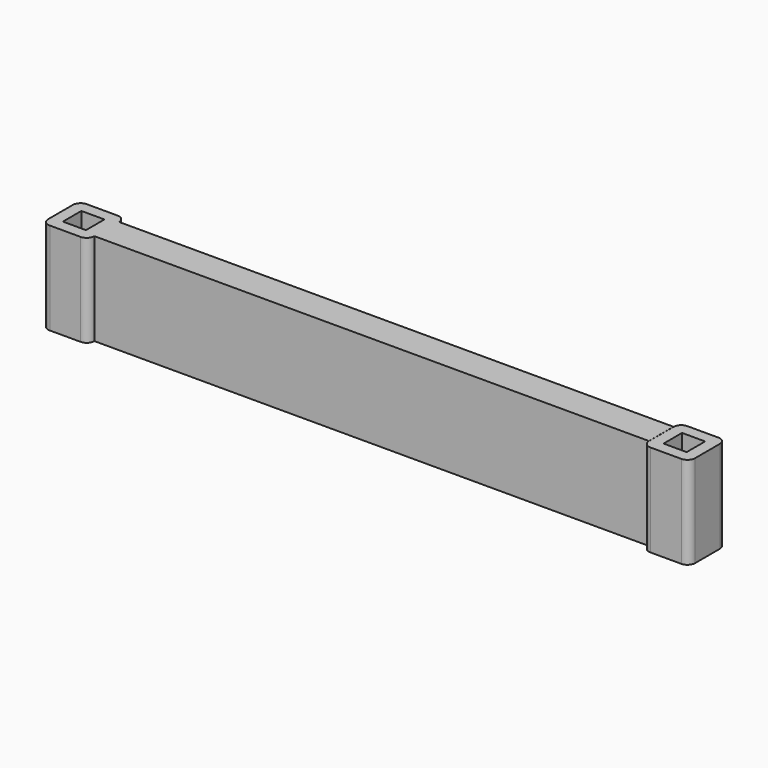
from build123d import *

# Parameters (mm, degrees)
F0_W     = 3
F0_H     = 3
F0_W_2   = 72
F0_H_2   = 4
F1_DEPTH = 12


with BuildPart() as f1:
    # F0 (on Top) → F1 (new body)
    with BuildSketch(Plane.XY):
        with BuildLine():
            Line((2, 3), (-2, 3))
            ThreePointArc((-2, 3), (-2.707107, 2.707107), (-3, 2))
            Line((-3, 2), (-3, -2))
            ThreePointArc((-3, -2), (-2.707107, -2.707107), (-2, -3))
            Line((-2, -3), (2, -3))
            ThreePointArc((2, -3), (2.707107, -2.707107), (3, -2))
            Line((3, -2), (3, 2))
            ThreePointArc((3, 2), (2.707107, 2.707107), (2, 3))
        make_face()
        Rectangle(F0_W, F0_H, mode=Mode.SUBTRACT)
        with Locations((39, 0)):
            Rectangle(F0_W_2, F0_H_2)
        with BuildLine():
            Line((80.013346, 2.987126), (76.013346, 2.987126))
            ThreePointArc((76.013346, 2.987126), (75.306239, 2.694233), (75.013346, 1.987126))
            Line((75.013346, 1.987126), (75.013346, -2.012874))
            ThreePointArc((75.013346, -2.012874), (75.306239, -2.719981), (76.013346, -3.012874))
            Line((76.013346, -3.012874), (80.013346, -3.012874))
            ThreePointArc((80.013346, -3.012874), (80.720453, -2.719981), (81.013346, -2.012874))
            Line((81.013346, -2.012874), (81.013346, 1.987126))
            ThreePointArc((81.013346, 1.987126), (80.720453, 2.694233), (80.013346, 2.987126))
        make_face()
        with Locations((78.013346, -0.012874)):
            Rectangle(F0_W, F0_H, mode=Mode.SUBTRACT)
    extrude(amount=F1_DEPTH)


solid = f1.part
